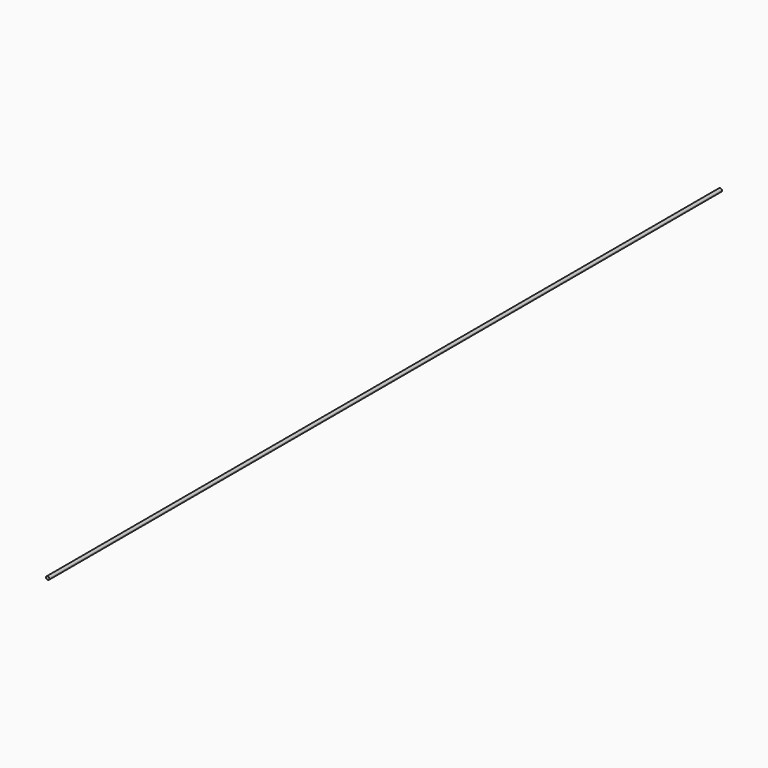
from build123d import *

# Parameters (mm, degrees)
F0_R      = 2.5
F1_DEPTH  = 1350
F1_FACE_R = 2.5
F2_DEPTH  = 94.15


with BuildPart() as f1:
    # F0 (on Front) → F1 (new body)
    with BuildSketch(Plane.XZ):
        with Locations((-60.548749, 41.549779)):
            Circle(F0_R)
    extrude(amount=F1_DEPTH)

    # F1_face (on face) → F2 (cut)
    with BuildSketch(Plane(origin=(-60.548749, 0, 41.549779), x_dir=(1, 0, 0), z_dir=(0, 1, 0))):
        Circle(F1_FACE_R)
    extrude(amount=-F2_DEPTH, mode=Mode.SUBTRACT)


solid = f1.part
